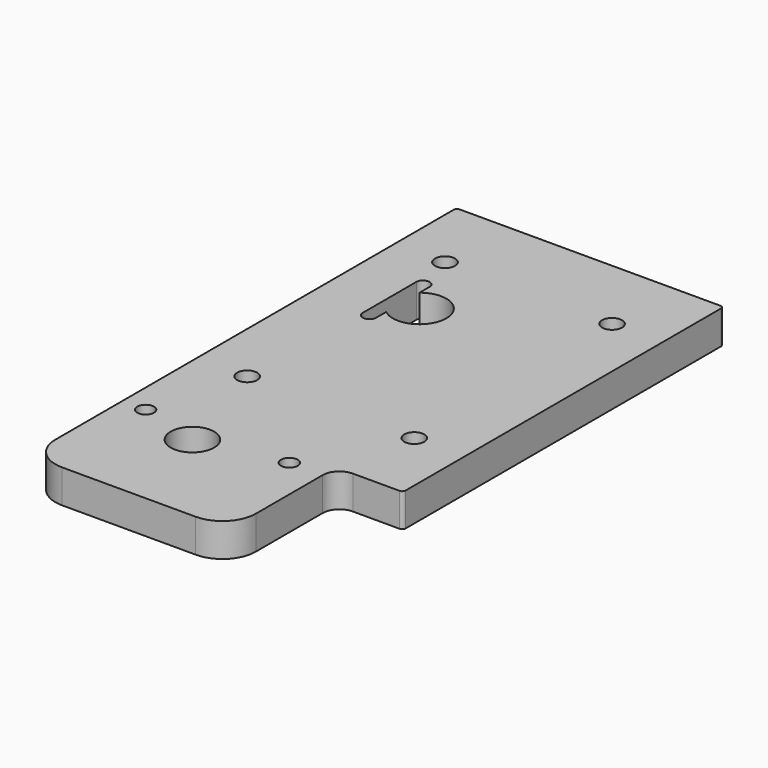
from build123d import *

# Parameters (mm, degrees)
SKETCH_R    = 6.5
SKETCH_R_2  = 3
SKETCH_R_3  = 2.5
PAD_DEPTH   = 10
FILLET_R    = 1
FILLET001_R = 10
FILLET002_R = 5


with BuildPart() as part:
    # Sketch → Pad (new body)
    with BuildSketch(Plane.XY):
        Polygon((-25, 45), (55, 45), (55, -75), (35, -75), (35, -115), (-25, -115), align=None)
        with Locations((0, -85)):
            Circle(SKETCH_R, mode=Mode.SUBTRACT)
        with Locations((-10, -52)):
            Circle(SKETCH_R_2, mode=Mode.SUBTRACT)
        with Locations((40, -52)):
            Circle(SKETCH_R_2, mode=Mode.SUBTRACT)
        with Locations((40, 22)):
            Circle(SKETCH_R_2, mode=Mode.SUBTRACT)
        with Locations((-10, 22)):
            Circle(SKETCH_R_2, mode=Mode.SUBTRACT)
        with Locations((25, -80)):
            Circle(SKETCH_R_3, mode=Mode.SUBTRACT)
        with Locations((-18, -80)):
            Circle(SKETCH_R_3, mode=Mode.SUBTRACT)
        with BuildLine():
            ThreePointArc((-5, -6.244998), (8, 0), (-5, 6.244998))
            Line((-5, 6.244998), (-5, 10))
            ThreePointArc((-5, 10), (-7, 12), (-9, 10))
            Line((-9, 10), (-9, -10))
            ThreePointArc((-9, -10), (-7, -12), (-5, -10))
            Line((-5, -10), (-5, -6.244998))
        make_face(mode=Mode.SUBTRACT)
    extrude(amount=PAD_DEPTH)

    # Fillet
    fillet_edges = [part.edges().sort_by_distance(p)[0] for p in [
        (55, -75, 5),
        (55, 45, 5),
        (-25, 45, 5),
    ]]
    fillet(fillet_edges, radius=FILLET_R)

    # Fillet001
    fillet001_edges = [part.edges().sort_by_distance(p)[0] for p in [
        (35, -115, 5),
        (-25, -115, 5),
    ]]
    fillet(fillet001_edges, radius=FILLET001_R)

    # Fillet002
    fillet002_edges = [part.edges().sort_by_distance(p)[0] for p in [
        (35, -75, 5),
    ]]
    fillet(fillet002_edges, radius=FILLET002_R)


solid = part.part
